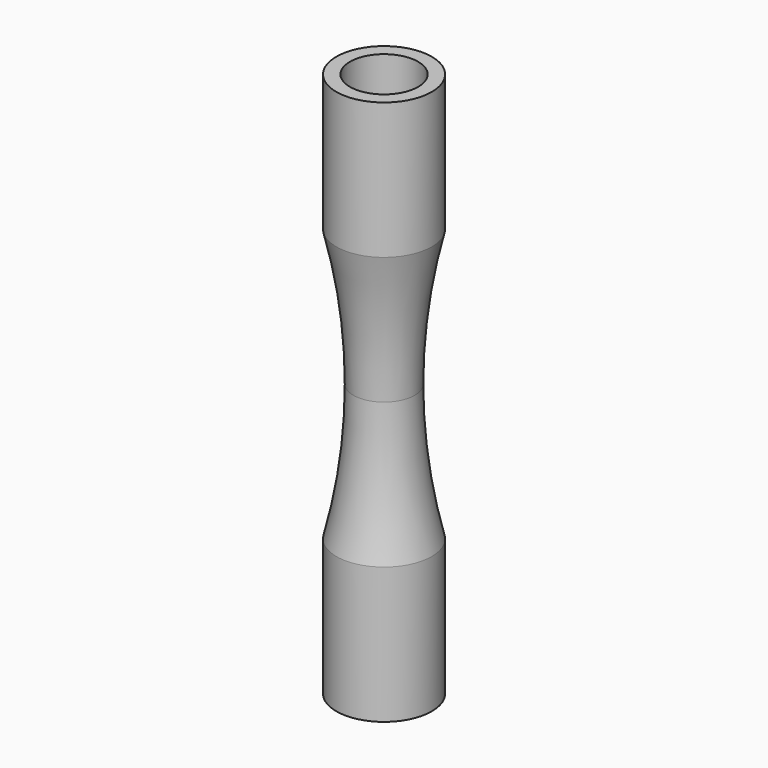
from build123d import *

# Parameters (mm, degrees)
F2_W     = 0.5
F2_H     = 2
F2_W_2   = 1
F3_DEPTH = 2


with BuildPart() as f3:
    # F2 (on offset) → F3 (new body)
    with BuildSketch(Plane.XY.offset(10)):
        with Locations((-0.25, 1.5)):
            Rectangle(F2_W, F2_H)
        with Locations((0.25, 1.5)):
            Rectangle(F2_W, F2_H)
        Polygon((0.5, 0.5), (0, 0.5), (-0.5, 0.5), (-0.5, 0), (-0.5, -0.5), (0.5, -0.5), (0.5, 0), align=None)
        Polygon((2.5, 0.5), (0.5, 0.5), (0.5, 0), (0.5, -0.5), (2.5, -0.5), align=None)
        Polygon((-0.5, 0), (-0.5, 0.5), (-2.5, 0.5), (-2.5, -0.5), (-0.5, -0.5), align=None)
        with Locations((0, -1.5)):
            Rectangle(F2_W_2, F2_H)
    extrude(amount=-F3_DEPTH)

    # F0 (on Front) → F4 (revolve)
    with BuildSketch(Plane.XZ):
        with BuildLine():
            ThreePointArc((2.5, 30), (1.563711, 25.038911), (1.25, 20))
            Line((1.25, 20), (2.25, 20))
            ThreePointArc((2.25, 20), (2.563711, 25.038911), (3.5, 30))
            Line((3.5, 30), (3.5, 40))
            Line((3.5, 40), (2.5, 40))
            Line((2.5, 40), (2.5, 30))
        make_face()
        with BuildLine():
            Line((2.5, 10), (2.5, 0))
            Line((2.5, 0), (3.5, 0))
            Line((3.5, 0), (3.5, 10))
            ThreePointArc((3.5, 10), (2.563711, 14.961089), (2.25, 20))
            Line((2.25, 20), (1.25, 20))
            ThreePointArc((1.25, 20), (1.563711, 14.961089), (2.5, 10))
        make_face()
    revolve(axis=Axis((0, 0, 20), (0, 0, 1)))


solid = f3.part
